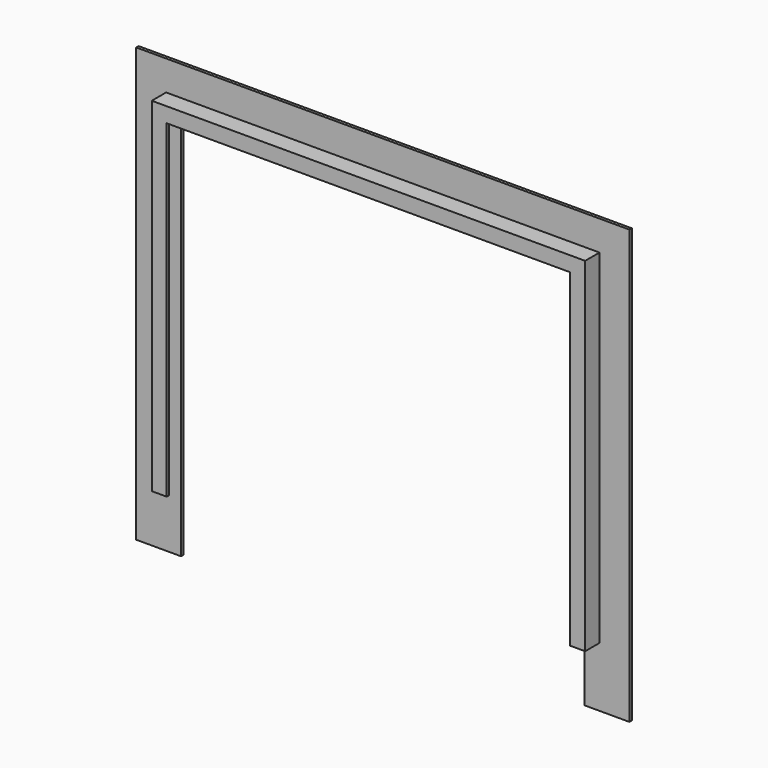
from build123d import *

# Parameters (mm, degrees)
F1_DEPTH = 8.89
F2_T     = -2.54
F4_DEPTH = 2.54


with BuildPart() as f1:
    # F0 (on Front) → F1 (new body, symmetric)
    with BuildSketch(Plane.XZ):
        Polygon((-12.7, -279.4), (0, -279.4), (0, 0), (342.9, 0), (342.9, -279.4), (355.6, -279.4), (355.6, 12.7), (-12.7, 12.7), align=None)
    extrude(amount=F1_DEPTH, both=True)

    # F2
    f2_openings = [f1.faces().sort_by_distance(p)[0] for p in [
        (171.45, 0, 0),
        (0, 0, -139.7),
        (-6.35, 0, -279.4),
        (342.9, 0, -139.7),
        (349.25, 0, -279.4),
    ]]
    offset(amount=F2_T, openings=f2_openings)

    # F3 (on face) → F4 (join)
    with BuildSketch(Plane(origin=(0, 8.89, 0), x_dir=(-1, 0, 0), z_dir=(0, 1, 0))):
        Polygon((-381, 38.1), (-381, -330.2), (-342.9, -330.2), (-342.9, -279.4), (-355.6, -279.4), (-355.6, 12.7), (12.7, 12.7), (12.7, -279.4), (0, -279.4), (0, -330.2), (38.1, -330.2), (38.1, 38.1), align=None)
    extrude(amount=-F4_DEPTH)


solid = f1.part
